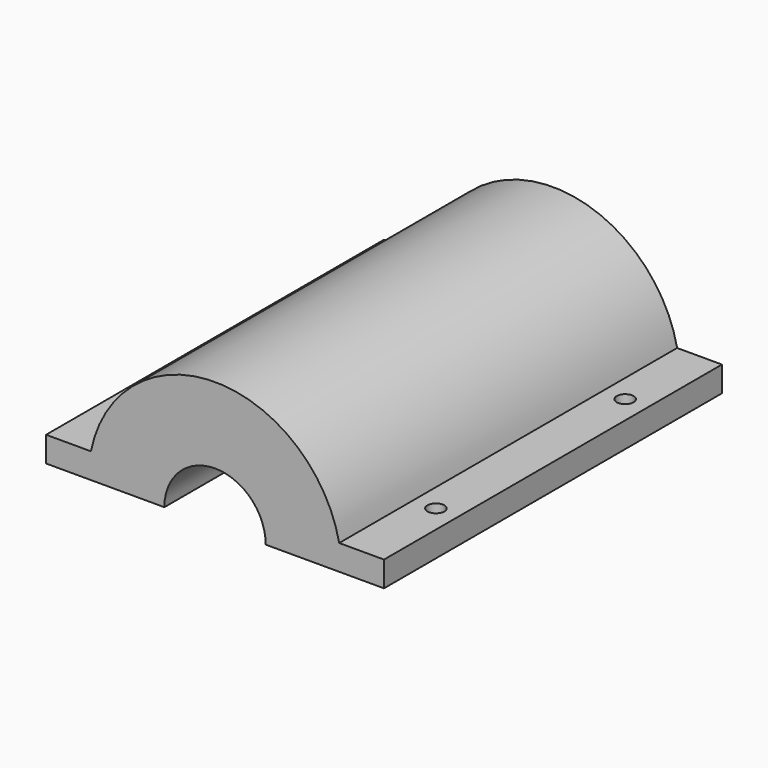
from build123d import *

# Parameters (mm, degrees)
F1_DEPTH = 50
F4_DEPTH = 4.5
F5_START = -28
F5_DEPTH = 4.5
F6_R     = 1
F7_DEPTH = 25


with BuildPart() as f1:
    # F0 (on Front) → F1 (new body)
    with BuildSketch(Plane.XZ):
        with BuildLine():
            Line((0, 3), (0, 0))
            Line((0, 0), (5.0000003353, 0))
            ThreePointArc((5.0000003353, 0), (5.0759580419, 1.5076344304), (5.3030618855, 3))
            Line((5.3030618855, 3), (0, 3))
        make_face()
        with BuildLine():
            ThreePointArc((5.3030618855, 3), (5.0759580419, 1.5076344304), (5.0000003353, 0))
            Line((5.0000003353, 0), (14, 0))
            ThreePointArc((14, 0), (20, 6), (26, 0))
            Line((26, 0), (34.9999996647, 0))
            ThreePointArc((34.9999996647, 0), (34.9240419581, 1.5076344304), (34.6969381145, 3))
            ThreePointArc((34.6969381145, 3), (20, 14.9999996647), (5.3030618855, 3))
        make_face()
        with BuildLine():
            Line((40, 3), (34.6969381145, 3))
            ThreePointArc((34.6969381145, 3), (34.9240419581, 1.5076344304), (34.9999996647, 0))
            Line((34.9999996647, 0), (40, 0))
            Line((40, 0), (40, 3))
        make_face()
    extrude(amount=-F1_DEPTH)

    # F3 (on offset) → F4 (cut)
    with BuildSketch(Plane.XZ.offset(-10)):
        with BuildLine():
            Line((26, 0), (27.6, 0))
            ThreePointArc((27.6, 0), (20, 7.6), (12.4, 0))
            Line((12.4, 0), (14, 0))
            ThreePointArc((14, 0), (20, 6), (26, 0))
        make_face()
    extrude(amount=-F4_DEPTH, mode=Mode.SUBTRACT)

    # F3 (on offset) → F5 (cut)
    with BuildSketch(Plane.XZ.offset(-10).offset(F5_START)):
        with BuildLine():
            Line((26, 0), (27.6, 0))
            ThreePointArc((27.6, 0), (20, 7.6), (12.4, 0))
            Line((12.4, 0), (14, 0))
            ThreePointArc((14, 0), (20, 6), (26, 0))
        make_face()
    extrude(amount=-F5_DEPTH, mode=Mode.SUBTRACT)

    # F6 (on face) → F7 (cut)
    with BuildSketch(Plane.XY.offset(3)):
        with Locations((37.3484690573, 11)):
            Circle(F6_R)
        with Locations((37.3484690573, 39)):
            Circle(F6_R)
        with Locations((2.6515309427, 11)):
            Circle(F6_R)
        with Locations((2.6515309427, 39)):
            Circle(F6_R)
    extrude(amount=-F7_DEPTH, mode=Mode.SUBTRACT)


solid = f1.part
